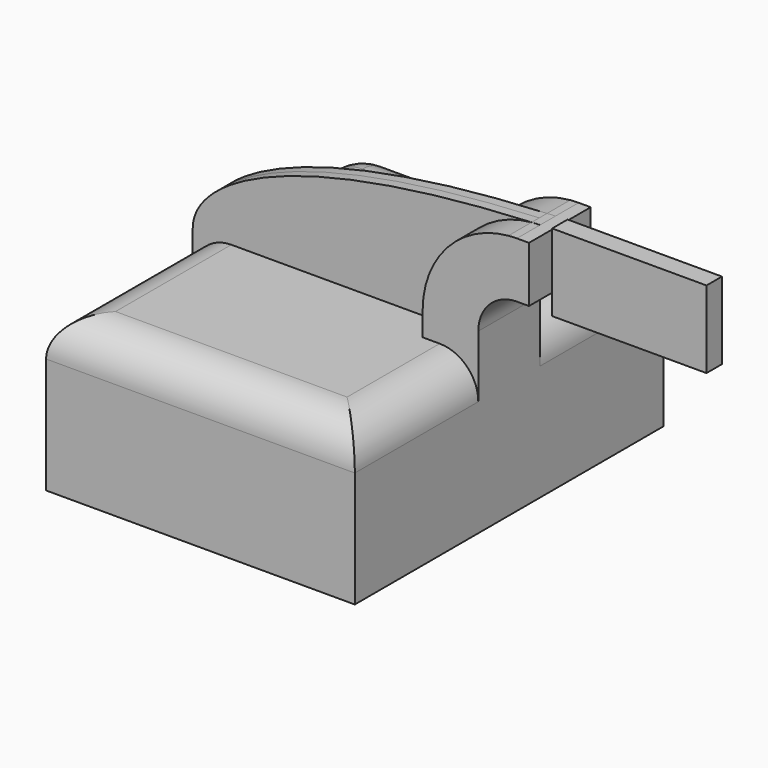
from build123d import *

# Parameters (mm, degrees)
F1_DEPTH = 63.5
F2_DEPTH = 12.7
F3_DEPTH = 3.175
F4_R     = 12.7


with BuildPart() as f1:
    # F0 (on Front) → F1 (new body, symmetric)
    with BuildSketch(Plane.XZ):
        Polygon((32.4870109211, 25.4), (-50.8, 25.4), (-50.8, -25.4), (50.8, -25.4), (50.8, 25.4), align=None)
    extrude(amount=F1_DEPTH, both=True)

    # F0 (on Front) → F2 (join, symmetric)
    with BuildSketch(Plane.XZ):
        with BuildLine():
            Line((32.4870109211, 33.1416912377), (32.4870109211, 25.4))
            Line((32.4870109211, 25.4), (50.8, 25.4))
            Line((50.8, 25.4), (50.8, 33.1416912377))
            ThreePointArc((50.8, 33.1416912377), (54.5197438789, 42.1219473588), (63.5, 45.8416912377))
            Line((63.5, 45.8416912377), (67.4773146418, 45.8416912377))
            Line((67.4773146418, 45.8416912377), (67.4773146418, 64.1546803166))
            Line((67.4773146418, 64.1546803166), (63.5, 64.1546803166))
            add(Edge.make_bspline(
                [(60.7238640338, 64.0301771298), (61.6427833631, 64.0736819476), (62.5681528274, 64.1151925709), (63.5, 64.1546803166)],
                knots=[119.3459466449, 119.3459466449, 119.3459466449, 119.3459466449, 120.6914050231, 120.6914050231, 120.6914050231, 120.6914050231], degree=3))
            ThreePointArc((60.7238640338, 64.0301771298), (40.6100265836, 54.066666951), (32.4870109211, 33.1416912377))
        make_face()
    extrude(amount=F2_DEPTH, both=True)

    # F0 (on Front) → F3 (join, symmetric)
    with BuildSketch(Plane.XZ):
        with BuildLine():
            add(Edge.make_bspline(
                [(-50.8, 25.4), (-51.5467154079, 40.6214778369), (-20.7868679356, 60.1711772937), (60.7238640338, 64.0301771298)],
                knots=[0, 0, 0, 0, 119.3459466449, 119.3459466449, 119.3459466449, 119.3459466449], degree=3))
            Line((-50.8, 25.4), (32.4870109211, 25.4))
            Line((32.4870109211, 25.4), (32.4870109211, 33.1416912377))
            ThreePointArc((32.4870109211, 33.1416912377), (40.6100265836, 54.066666951), (60.7238640338, 64.0301771298))
        make_face()
        Polygon((32.4870109211, 25.4), (-50.8, 25.4), (-50.8, -25.4), (50.8, -25.4), (50.8, 25.4), align=None)
        with BuildLine():
            Line((32.4870109211, 33.1416912377), (32.4870109211, 25.4))
            Line((32.4870109211, 25.4), (50.8, 25.4))
            Line((50.8, 25.4), (50.8, 33.1416912377))
            ThreePointArc((50.8, 33.1416912377), (54.5197438789, 42.1219473588), (63.5, 45.8416912377))
            Line((63.5, 45.8416912377), (67.4773146418, 45.8416912377))
            Line((67.4773146418, 45.8416912377), (67.4773146418, 64.1546803166))
            Line((67.4773146418, 64.1546803166), (63.5, 64.1546803166))
            add(Edge.make_bspline(
                [(60.7238640338, 64.0301771298), (61.6427833631, 64.0736819476), (62.5681528274, 64.1151925709), (63.5, 64.1546803166)],
                knots=[119.3459466449, 119.3459466449, 119.3459466449, 119.3459466449, 120.6914050231, 120.6914050231, 120.6914050231, 120.6914050231], degree=3))
            ThreePointArc((60.7238640338, 64.0301771298), (40.6100265836, 54.066666951), (32.4870109211, 33.1416912377))
        make_face()
        with BuildLine():
            ThreePointArc((63.5, 64.1546803166), (62.1105367991, 64.1235388847), (60.7238640338, 64.0301771298))
            add(Edge.make_bspline(
                [(60.7238640338, 64.0301771298), (61.6427833631, 64.0736819476), (62.5681528274, 64.1151925709), (63.5, 64.1546803166)],
                knots=[119.3459466449, 119.3459466449, 119.3459466449, 119.3459466449, 120.6914050231, 120.6914050231, 120.6914050231, 120.6914050231], degree=3))
        make_face()
        Polygon((67.4773146418, 64.4600404125), (67.4773146418, 64.1546803166), (67.4773146418, 45.8416912377), (67.4773146418, 39.0600404125), (118.2773146418, 39.0600404125), (118.2773146418, 64.4600404125), align=None)
    extrude(amount=F3_DEPTH, both=True)

    # F4
    f4_edges = [f1.edges().sort_by_distance(p)[0] for p in [
        (-50.8, 33.3375, 25.4),
        (0, 63.5, 25.4),
        (50.8, 38.1, 25.4),
        (0, -63.5, 25.4),
        (50.8, -38.1, 25.4),
        (-50.8, -33.3375, 25.4),
        (-50.8, 63.5, 0),
    ]]
    fillet(f4_edges, radius=F4_R)


solid = f1.part
